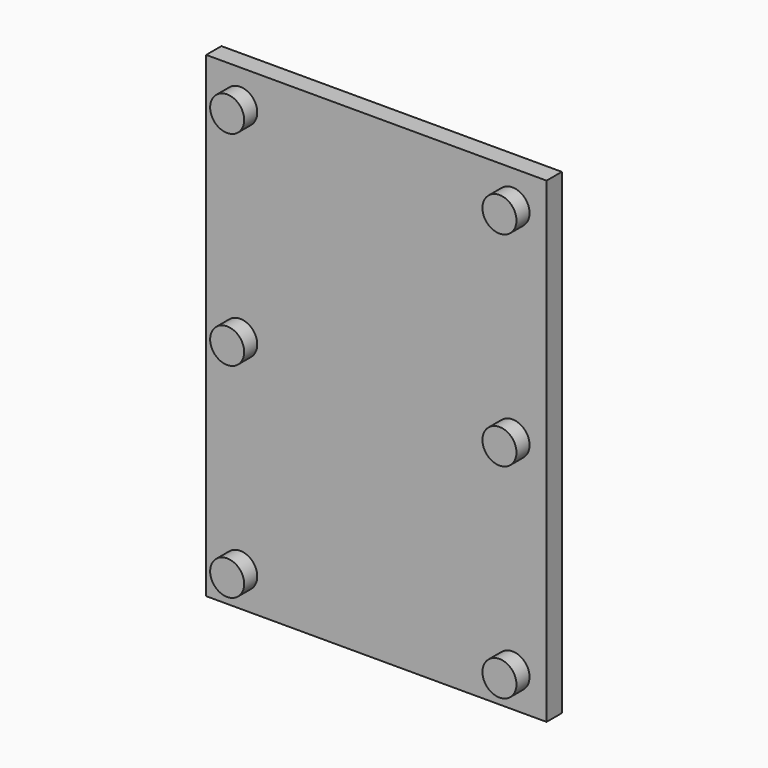
from build123d import *

# Parameters (mm, degrees)
F0_R     = 2.5
F1_DEPTH = 5.2
F0_W     = 50
F0_H     = 70
F2_DEPTH = 2.8


with BuildPart() as f1:
    # F0 (on Front) → F1 (new body)
    with BuildSketch(Plane.XZ):
        with Locations((-20, 30)):
            Circle(F0_R)
        with Locations((20, 30)):
            Circle(F0_R)
        with Locations((20, 0)):
            Circle(F0_R)
        with Locations((-20, 0)):
            Circle(F0_R)
        with Locations((-20, -30)):
            Circle(F0_R)
        with Locations((20, -30)):
            Circle(F0_R)
    extrude(amount=F1_DEPTH)


with BuildPart() as f2:
    # F0 (on Front) → F2 (new body)
    with BuildSketch(Plane.XZ):
        Rectangle(F0_W, F0_H)
        with Locations((-20, -30)):
            Circle(F0_R, mode=Mode.SUBTRACT)
        with Locations((20, -30)):
            Circle(F0_R, mode=Mode.SUBTRACT)
        with Locations((-20, 0)):
            Circle(F0_R, mode=Mode.SUBTRACT)
        with Locations((-20, 30)):
            Circle(F0_R, mode=Mode.SUBTRACT)
        with Locations((20, 0)):
            Circle(F0_R, mode=Mode.SUBTRACT)
        with Locations((20, 30)):
            Circle(F0_R, mode=Mode.SUBTRACT)
    extrude(amount=F2_DEPTH)


solid = Compound([f1.part, f2.part])
